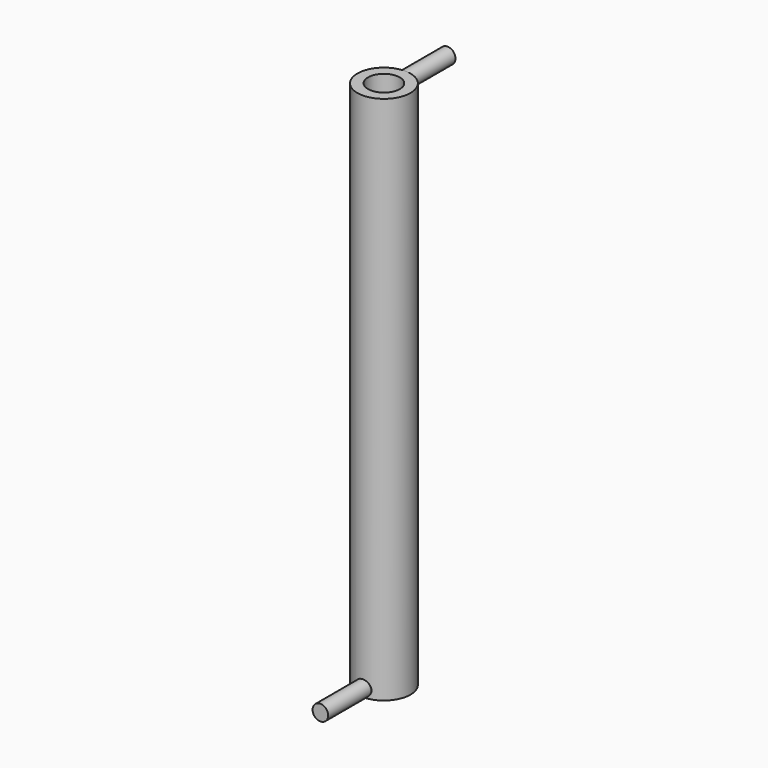
from build123d import *

# Parameters (mm, degrees)
F0_R          = 50
F0_R_2        = 30
F1_DEPTH      = 1000
F3_R          = 14.7596932235
F4_DEPTH      = 100
F4_DEPTH_BACK = 7
F6_R          = 15
F7_DEPTH      = 100
F7_DEPTH_BACK = 7


with BuildPart() as f1:
    # F0 (on Top) → F1 (new body)
    with BuildSketch(Plane.XY):
        Circle(F0_R)
        Circle(F0_R_2, mode=Mode.SUBTRACT)
    extrude(amount=F1_DEPTH)

    # F3 (on offset) → F4 (join, two sides)
    with BuildSketch(Plane.XZ.offset(50)) as f4_sk:
        with Locations((0, 15)):
            Circle(F3_R)
    extrude(amount=F4_DEPTH)
    extrude(f4_sk.sketch, amount=-F4_DEPTH_BACK)

    # F6 (on offset) → F7 (join, two sides)
    with BuildSketch(Plane.XZ.offset(-50)) as f7_sk:
        with Locations((0, 985)):
            Circle(F6_R)
    extrude(amount=-F7_DEPTH)
    extrude(f7_sk.sketch, amount=F7_DEPTH_BACK)


solid = f1.part
